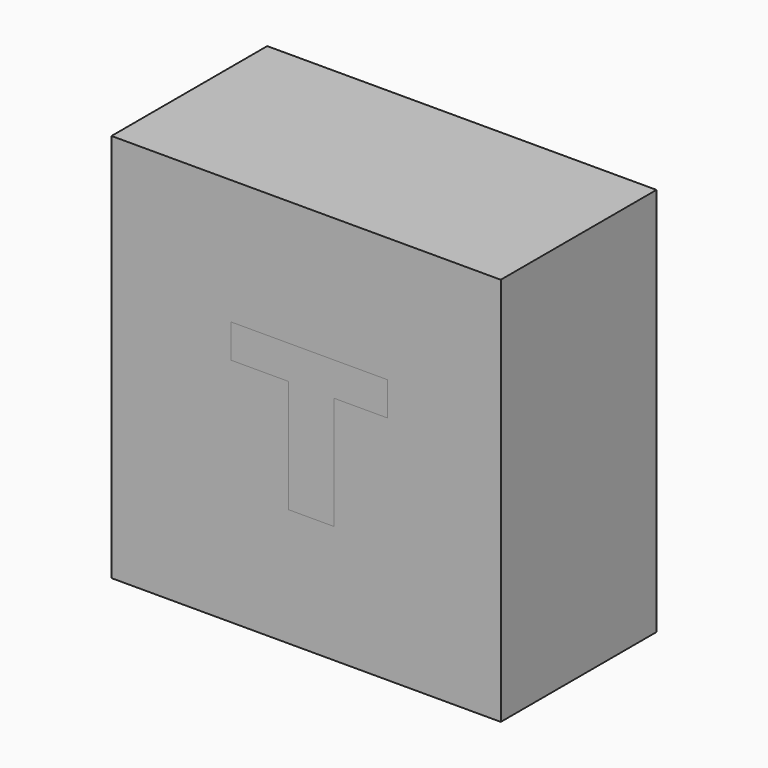
from build123d import *

# Parameters (mm, degrees)
F0_W     = 50.8
F0_H     = 50.8
F0_R     = 19.603193
F1_DEPTH = 25.4
F2_DEPTH = 25.4


with BuildPart() as f1:
    # F0 (on Front) → F1 (new body)
    with BuildSketch(Plane.XZ):
        with Locations((-7.238384, 2.398915)):
            Rectangle(F0_W, F0_H)
        with Locations((-7.238384, 2.398915)):
            Circle(F0_R, mode=Mode.SUBTRACT)
        Polygon((3.361762, 11.503861), (-17.062299, 11.503861), (-17.062299, 7.109127), (-9.564858, 7.109127), (-9.564858, -7.626155), (-3.618613, -7.626155), (-3.618613, 7.109127), (3.361762, 7.109127), align=None)
    extrude(amount=F1_DEPTH)


with BuildPart() as f2:
    # F0 (on Front) → F2 (new body)
    with BuildSketch(Plane.XZ):
        with Locations((-7.238384, 2.398915)):
            Rectangle(F0_W, F0_H)
        with Locations((-7.238384, 2.398915)):
            Circle(F0_R, mode=Mode.SUBTRACT)
        with Locations((-7.238384, 2.398915)):
            Circle(F0_R)
        Polygon((-17.062299, 7.109127), (-17.062299, 11.503861), (3.361762, 11.503861), (3.361762, 7.109127), (-3.618613, 7.109127), (-3.618613, -7.626155), (-9.564858, -7.626155), (-9.564858, 7.109127), align=None, mode=Mode.SUBTRACT)
    extrude(amount=F2_DEPTH)


solid = Compound([f1.part, f2.part])
